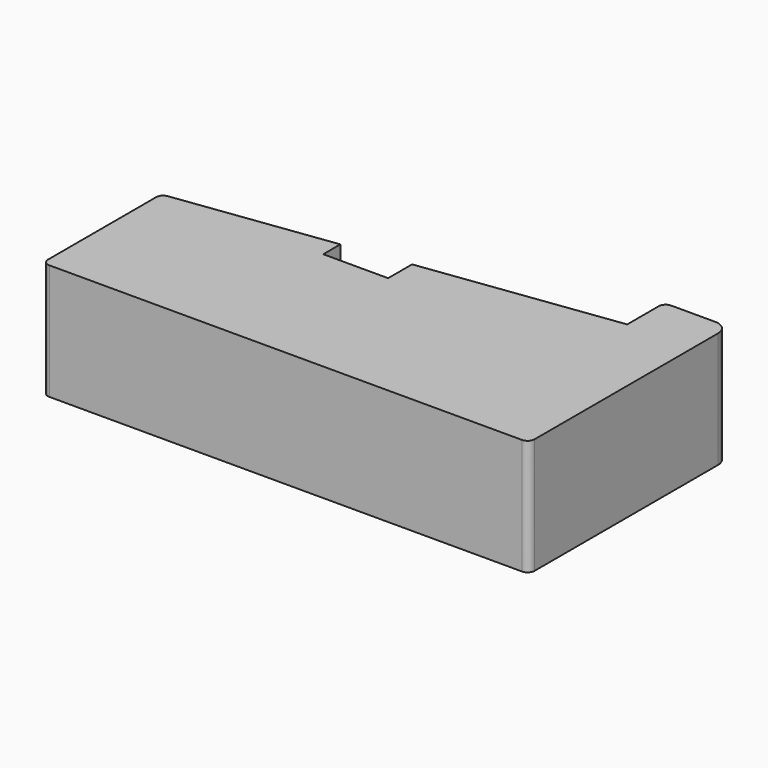
from build123d import *

# Parameters (mm, degrees)
F1_DEPTH = 25


with BuildPart() as f1:
    # F0 (on Top) → F1 (new body)
    with BuildSketch(Plane.XY):
        with BuildLine():
            ThreePointArc((-105, -53.457447), (-104.56066, -54.518107), (-103.5, -54.957447))
            Line((-103.5, -54.957447), (-56, -54.957447))
            Line((-56, -54.957447), (-1.5, -54.957447))
            ThreePointArc((-1.5, -54.957447), (-0.43934, -54.518107), (0, -53.457447))
            Line((0, -53.457447), (0, -3.957447))
            ThreePointArc((0, -3.957447), (-0.87868, -1.836126), (-3, -0.957447))
            Line((-3, -0.957447), (-12.5, -0.957447))
            ThreePointArc((-12.5, -0.957447), (-13.56066, -1.396786), (-14, -2.457447))
            Line((-14, -2.457447), (-14, -10.957447))
            Line((-14, -10.957447), (-56, -16.495908))
            Line((-56, -16.495908), (-56, -22.957447))
            Line((-56, -22.957447), (-70, -22.957447))
            Line((-70, -22.957447), (-70, -18.342062))
            Line((-70, -18.342062), (-103.696104, -22.785504))
            ThreePointArc((-103.696104, -22.785504), (-104.627865, -23.283731), (-105, -24.27263))
            Line((-105, -24.27263), (-105, -53.457447))
        make_face()
    extrude(amount=F1_DEPTH)


solid = f1.part
